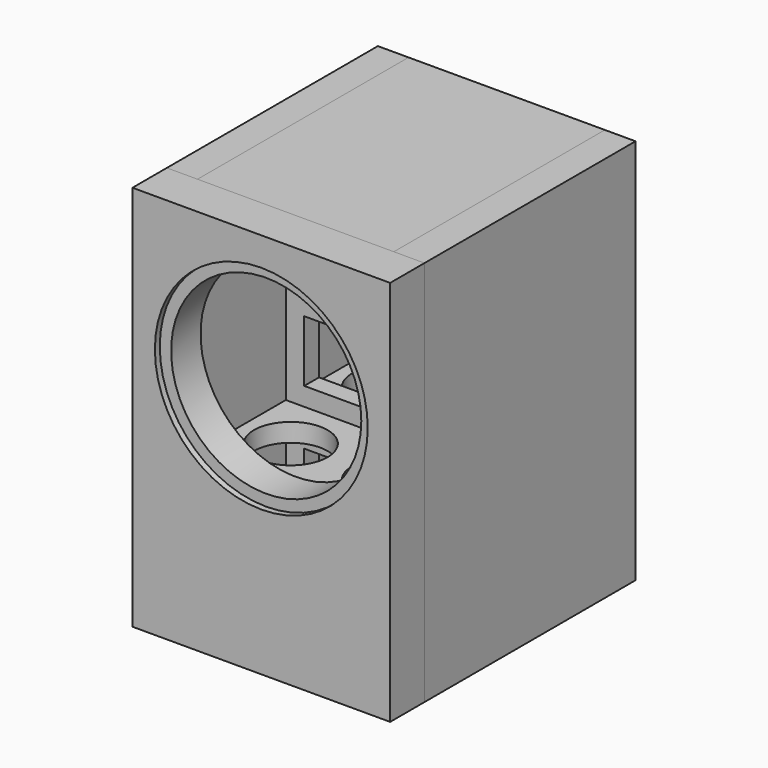
from build123d import *

# Parameters (mm, degrees)
F1_DEPTH  = 210
F2_DEPTH  = 160
F3_DEPTH  = 160
F4_DEPTH  = 160
F5_R      = 155
F6_DEPTH  = 70
F5_R_2    = 173.5
F7_DEPTH  = 10
F8_W      = 50
F8_H      = 630
F9_DEPTH  = 430
F10_DEPTH = 430
F0_W      = 30
F0_H      = 150
F11_DEPTH = 160
F12_DEPTH = 160
F0_H_2    = 160
F13_DEPTH = 160
F14_DEPTH = 160
F15_DEPTH = 160
F16_W     = 260
F16_H     = 90
F17_DEPTH = 30
F18_W     = 260
F18_H     = 100
F19_DEPTH = 30
F20_W     = 260
F20_H     = 90
F21_DEPTH = 30
F22_R     = 60
F23_DEPTH = 30
F24_R     = 60
F25_DEPTH = 30


with BuildPart() as f1:
    # F0 (on Right) → F1 (new body, symmetric)
    with BuildSketch(Plane.YZ):
        Polygon((70, 0), (0, 0), (0, -630), (70, -630), (70, -570), (70, -420), (70, -390), (70, -50), align=None)
    extrude(amount=F1_DEPTH, both=True)

    # F5 (on face) → F6 (cut, through all)
    with BuildSketch(Plane.XZ):
        with Locations((0, -220)):
            Circle(F5_R)
    extrude(amount=-F6_DEPTH, mode=Mode.SUBTRACT)

    # F5 (on face) → F7 (cut)
    with BuildSketch(Plane.XZ):
        with Locations((0, -220)):
            Circle(F5_R_2)
        with Locations((0, -220)):
            Circle(F5_R, mode=Mode.SUBTRACT)
    extrude(amount=-F7_DEPTH, mode=Mode.SUBTRACT)


with BuildPart() as f2:
    # F0 (on Right) → F2 (new body, symmetric)
    with BuildSketch(Plane.YZ):
        Polygon((70, -570), (70, -630), (500, -630), (500, -570), (450, -570), (280, -570), (250, -570), align=None)
    extrude(amount=F2_DEPTH, both=True)


with BuildPart() as f3:
    # F0 (on Right) → F3 (new body, symmetric)
    with BuildSketch(Plane.YZ):
        Polygon((500, 0), (70, 0), (70, -50), (250, -50), (280, -50), (450, -50), (500, -50), align=None)
    extrude(amount=F3_DEPTH, both=True)


with BuildPart() as f4:
    # F0 (on Right) → F4 (new body, symmetric)
    with BuildSketch(Plane.YZ):
        Polygon((500, -570), (500, -50), (450, -50), (450, -200), (450, -230), (450, -390), (450, -420), (450, -570), align=None)
    extrude(amount=F4_DEPTH, both=True)


with BuildPart() as f9:
    # F8 (on face) → F9 (new body, through all)
    with BuildSketch(Plane(origin=(0, 70, 0), x_dir=(-1, 0, 0), z_dir=(0, 1, 0))):
        with Locations((-185, -315)):
            Rectangle(F8_W, F8_H)
    extrude(amount=F9_DEPTH)


with BuildPart() as f10:
    # F8 (on face) → F10 (new body, through all)
    with BuildSketch(Plane(origin=(0, 70, 0), x_dir=(-1, 0, 0), z_dir=(0, 1, 0))):
        with Locations((185, -315)):
            Rectangle(F8_W, F8_H)
    extrude(amount=F10_DEPTH)


with BuildPart() as f11:
    # F0 (on Right) → F11 (new body, symmetric)
    with BuildSketch(Plane.YZ):
        with Locations((265, -125)):
            Rectangle(F0_W, F0_H)
    extrude(amount=F11_DEPTH, both=True)

    # F16 (on face) → F17 (cut, through all)
    with BuildSketch(Plane.XZ.offset(-250)):
        with Locations((0, -125)):
            Rectangle(F16_W, F16_H)
    extrude(amount=-F17_DEPTH, mode=Mode.SUBTRACT)


with BuildPart() as f12:
    # F0 (on Right) → F12 (new body, symmetric)
    with BuildSketch(Plane.YZ):
        Polygon((280, -200), (250, -200), (250, -230), (280, -230), (450, -230), (450, -200), align=None)
    extrude(amount=F12_DEPTH, both=True)

    # F22 (on face) → F23 (cut, through all)
    with BuildSketch(Plane.XY.offset(-200)):
        with Locations((-80, 350)):
            Circle(F22_R)
        with Locations((80, 350)):
            Circle(F22_R)
    extrude(amount=-F23_DEPTH, mode=Mode.SUBTRACT)


with BuildPart() as f13:
    # F0 (on Right) → F13 (new body, symmetric)
    with BuildSketch(Plane.YZ):
        with Locations((265, -310)):
            Rectangle(F0_W, F0_H_2)
    extrude(amount=F13_DEPTH, both=True)

    # F18 (on face) → F19 (cut, through all)
    with BuildSketch(Plane.XZ.offset(-250)):
        with Locations((0, -310)):
            Rectangle(F18_W, F18_H)
    extrude(amount=-F19_DEPTH, mode=Mode.SUBTRACT)


with BuildPart() as f14:
    # F0 (on Right) → F14 (new body, symmetric)
    with BuildSketch(Plane.YZ):
        Polygon((250, -390), (70, -390), (70, -420), (250, -420), (280, -420), (450, -420), (450, -390), (280, -390), align=None)
    extrude(amount=F14_DEPTH, both=True)

    # F24 (on face) → F25 (cut, through all)
    with BuildSketch(Plane.XY.offset(-390)):
        with Locations((-80, 360)):
            Circle(F24_R)
        with Locations((80, 360)):
            Circle(F24_R)
        with Locations((-80, 160)):
            Circle(F24_R)
        with Locations((80, 160)):
            Circle(F24_R)
    extrude(amount=-F25_DEPTH, mode=Mode.SUBTRACT)


with BuildPart() as f15:
    # F0 (on Right) → F15 (new body, symmetric)
    with BuildSketch(Plane.YZ):
        with Locations((265, -495)):
            Rectangle(F0_W, F0_H)
    extrude(amount=F15_DEPTH, both=True)

    # F20 (on face) → F21 (cut, through all)
    with BuildSketch(Plane.XZ.offset(-250)):
        with Locations((0, -495)):
            Rectangle(F20_W, F20_H)
    extrude(amount=-F21_DEPTH, mode=Mode.SUBTRACT)


solid = Compound([f1.part, f2.part, f3.part, f4.part, f9.part, f10.part, f11.part, f12.part, f13.part, f14.part, f15.part])
